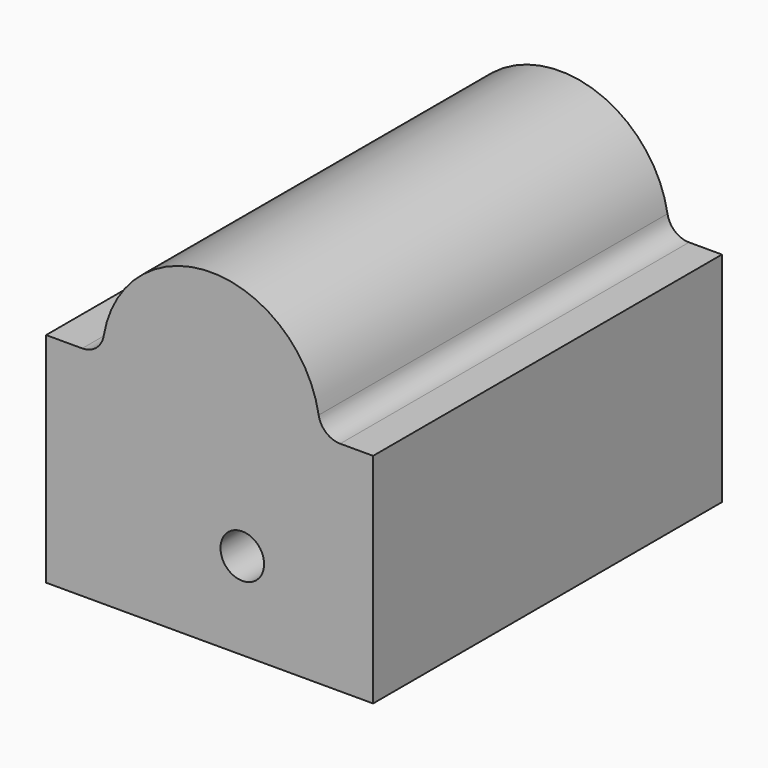
from build123d import *

# Parameters (mm, degrees)
F1_DEPTH = 5080
F2_R     = 254
F3_DEPTH = 7620


with BuildPart() as f1:
    # F0 (on Front) → F1 (new body)
    with BuildSketch(Plane.XZ):
        with BuildLine():
            Line((-3354.25178, 2511.319927), (-3775.384267, 2511.319927))
            Line((-3775.384267, 2511.319927), (-3775.384267, -28.680073))
            Line((-3775.384267, -28.680073), (34.615733, -28.680073))
            Line((34.615733, -28.680073), (34.615733, 2511.319927))
            Line((34.615733, 2511.319927), (-348.88325, 2511.319927))
            ThreePointArc((-348.88325, 2511.319927), (-512.839545, 2571.324222), (-599.330627, 2722.986594))
            ThreePointArc((-599.330627, 2722.986594), (-1851.567515, 3781.319927), (-3103.804402, 2722.986594))
            ThreePointArc((-3103.804402, 2722.986594), (-3190.295485, 2571.324222), (-3354.25178, 2511.319927))
        make_face()
    extrude(amount=-F1_DEPTH)

    # F2 (on face) → F3 (intersect)
    with BuildSketch(Plane.XZ):
        with BuildLine():
            ThreePointArc((-599.330627, 2722.986594), (-1851.567515, 3781.319927), (-3103.804402, 2722.986594))
            ThreePointArc((-3103.804402, 2722.986594), (-3190.295485, 2571.324222), (-3354.25178, 2511.319927))
            Line((-3354.25178, 2511.319927), (-3775.384267, 2511.319927))
            Line((-3775.384267, 2511.319927), (-3775.384267, -28.680073))
            Line((-3775.384267, -28.680073), (34.615733, -28.680073))
            Line((34.615733, -28.680073), (34.615733, 2511.319927))
            Line((34.615733, 2511.319927), (-348.88325, 2511.319927))
            ThreePointArc((-348.88325, 2511.319927), (-512.839545, 2571.324222), (-599.330627, 2722.986594))
        make_face()
        with Locations((-1489.384267, 987.319927)):
            Circle(F2_R, mode=Mode.SUBTRACT)
    extrude(amount=-F3_DEPTH, mode=Mode.INTERSECT)


solid = f1.part
